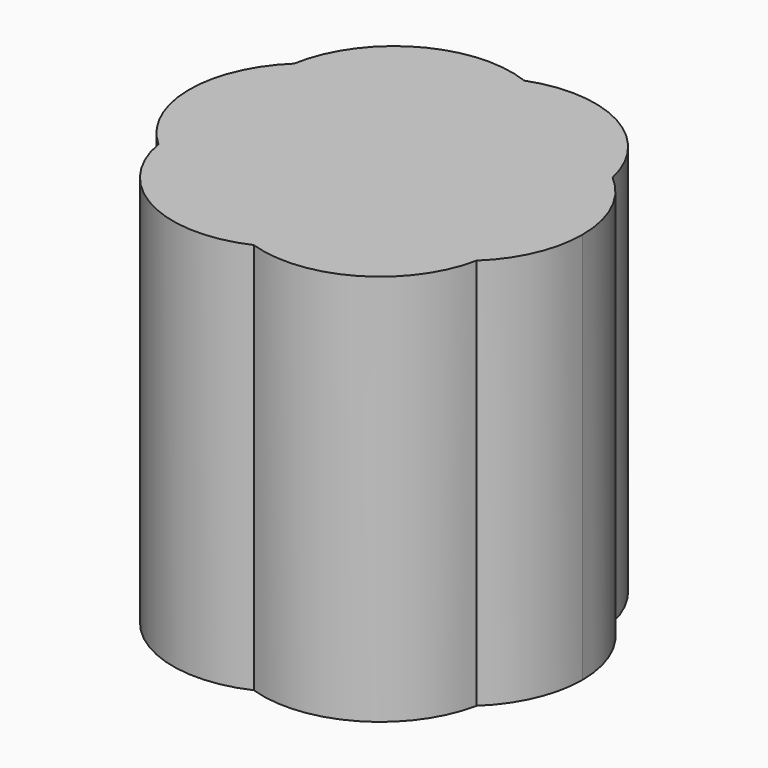
from build123d import *

# Parameters (mm, degrees)
F1_DEPTH = 6


with BuildPart() as f1:
    # F0 (on Top) → F1 (new body)
    with BuildSketch(Plane.XY):
        with BuildLine():
            ThreePointArc((-1.1568522608, 0.6937359032), (-1.1635140561, 1.2538159831), (-0.997691049, 1.7888270163))
            ThreePointArc((-0.997691049, 1.7888270163), (-1.7718265711, 1.7060478069), (-2.4385922747, 1.3041004216))
            ThreePointArc((-2.4385922747, 1.3041004216), (-2.4199534831, 0.6018817521), (-2.1339543408, -0.0397279073))
            ThreePointArc((-2.1339543408, -0.0397279073), (-1.7095369259, 0.4124412037), (-1.1568522608, 0.6937359032))
        make_face()
        with BuildLine():
            ThreePointArc((-0.997691049, 1.7888270163), (-0.5922058735, 2.3275723912), (-0.0169261846, 2.6793082097))
            ThreePointArc((-0.0169261846, 2.6793082097), (-1.5533527226, 2.5650567412), (-2.4385922747, 1.3041004216))
            ThreePointArc((-2.4385922747, 1.3041004216), (-1.7718265711, 1.7060478069), (-0.997691049, 1.7888270163))
        make_face()
        with BuildLine():
            ThreePointArc((0.9573035227, 1.7806946431), (0.5559078013, 2.3229336146), (-0.0169261846, 2.6793082097))
            ThreePointArc((-0.0169261846, 2.6793082097), (-0.5922058735, 2.3275723912), (-0.997691049, 1.7888270163))
            ThreePointArc((-0.997691049, 1.7888270163), (-0.4574037648, 1.6406241122), (0.0111474656, 1.3334853898))
            ThreePointArc((0.0111474656, 1.3334853898), (0.4510071634, 1.6273697), (0.9573035227, 1.7806946431))
        make_face()
        with BuildLine():
            ThreePointArc((0.9573035227, 1.7806946431), (1.7096536375, 1.7321721756), (2.3761394669, 1.3797778447))
            ThreePointArc((2.3761394669, 1.3797778447), (1.4767539015, 2.5767352448), (-0.0169261846, 2.6793082097))
            ThreePointArc((-0.0169261846, 2.6793082097), (0.5559078013, 2.3229336146), (0.9573035227, 1.7806946431))
        make_face()
        with BuildLine():
            ThreePointArc((2.1637118092, 0.0729466904), (2.3530885061, 0.5167542483), (2.4177632693, 0.9949235246))
            ThreePointArc((2.4177632693, 0.9949235246), (2.4073270646, 1.188472865), (2.3761394669, 1.3797778447))
            ThreePointArc((2.3761394669, 1.3797778447), (1.7096536375, 1.7321721756), (0.9573035227, 1.7806946431))
            ThreePointArc((0.9573035227, 1.7806946431), (1.0903838788, 1.4003008803), (1.1354978012, 0.9998329915))
            ThreePointArc((1.1354978012, 0.9998329915), (1.1324356845, 0.8948843302), (1.1232597528, 0.7902927419))
            ThreePointArc((1.1232597528, 0.7902927419), (1.708510909, 0.5259333713), (2.1637118092, 0.0729466904))
        make_face()
        with BuildLine():
            ThreePointArc((-2.1339543408, -0.0397279073), (-2.4199534831, 0.6018817521), (-2.4385922747, 1.3041004216))
            ThreePointArc((-2.4385922747, 1.3041004216), (-2.9977258641, -0.0250155949), (-2.4018688339, -1.338078486))
            ThreePointArc((-2.4018688339, -1.338078486), (-2.3917945043, -0.6633399709), (-2.1339543408, -0.0397279073))
        make_face()
        with BuildLine():
            ThreePointArc((-1.1009648217, -0.7464442706), (-1.680863021, -0.4857613008), (-2.1339543408, -0.0397279073))
            ThreePointArc((-2.1339543408, -0.0397279073), (-2.3917945043, -0.6633399709), (-2.4018688339, -1.338078486))
            ThreePointArc((-2.4018688339, -1.338078486), (-1.7080678324, -1.726186314), (-0.9147548233, -1.7775865604))
            ThreePointArc((-0.9147548233, -1.7775865604), (-1.084551606, -1.2758648881), (-1.1009648217, -0.7464442706))
        make_face()
        with BuildLine():
            ThreePointArc((-0.85915141, -0.0340076861), (-1.0482242964, 0.3134101527), (-1.1568522608, 0.6937359032))
            ThreePointArc((-1.1568522608, 0.6937359032), (-1.7095369259, 0.4124412037), (-2.1339543408, -0.0397279073))
            ThreePointArc((-2.1339543408, -0.0397279073), (-1.680863021, -0.4857613008), (-1.1009648217, -0.7464442706))
            ThreePointArc((-1.1009648217, -0.7464442706), (-1.0176963882, -0.3774508918), (-0.85915141, -0.0340076861))
        make_face()
        with BuildLine():
            ThreePointArc((-0.4116127927, 0.7597235158), (-0.7876987744, 0.7658762166), (-1.1568522608, 0.6937359032))
            ThreePointArc((-1.1568522608, 0.6937359032), (-1.0482242964, 0.3134101527), (-0.85915141, -0.0340076861))
            ThreePointArc((-0.85915141, -0.0340076861), (-0.7152772761, 0.1728132893), (-0.5439351314, 0.3575199534))
            ThreePointArc((-0.5439351314, 0.3575199534), (-0.4896413798, 0.5625260373), (-0.4116127927, 0.7597235158))
        make_face()
        with BuildLine():
            ThreePointArc((0.0111474656, 1.3334853898), (-0.4574037648, 1.6406241122), (-0.997691049, 1.7888270163))
            ThreePointArc((-0.997691049, 1.7888270163), (-1.1635140561, 1.2538159831), (-1.1568522608, 0.6937359032))
            ThreePointArc((-1.1568522608, 0.6937359032), (-0.7876987744, 0.7658762166), (-0.4116127927, 0.7597235158))
            ThreePointArc((-0.4116127927, 0.7597235158), (-0.2289134273, 1.0677370648), (0.0111474656, 1.3334853898))
        make_face()
        with BuildLine():
            ThreePointArc((0.4036450526, 0.8216020402), (0.2305129529, 1.095268938), (0.0111474656, 1.3334853898))
            ThreePointArc((0.0111474656, 1.3334853898), (-0.2289134273, 1.0677370648), (-0.4116127927, 0.7597235158))
            ThreePointArc((-0.4116127927, 0.7597235158), (-0.2345853282, 0.7291615679), (-0.061485922, 0.6811058566))
            ThreePointArc((-0.061485922, 0.6811058566), (0.1663171254, 0.7671206281), (0.4036450526, 0.8216020402))
        make_face()
        with BuildLine():
            ThreePointArc((-0.061485922, 0.6811058566), (-0.2345853282, 0.7291615679), (-0.4116127927, 0.7597235158))
            ThreePointArc((-0.4116127927, 0.7597235158), (-0.4896413798, 0.5625260373), (-0.5439351314, 0.3575199534))
            ThreePointArc((-0.5439351314, 0.3575199534), (-0.315850593, 0.5389040384), (-0.061485922, 0.6811058566))
        make_face()
        with BuildLine():
            ThreePointArc((-0.5381743659, -0.3848543202), (-0.2963556607, -0.5556786295), (-0.0298055449, -0.6845516936))
            ThreePointArc((-0.0298055449, -0.6845516936), (0.2922764364, -0.5248205993), (0.5761903753, -0.3042674301))
            ThreePointArc((0.5761903753, -0.3042674301), (0.5956057278, -0.1526840038), (0.6020930994, 0))
            ThreePointArc((0.6020930994, 0), (0.5953138626, 0.1560744869), (0.5750272169, 0.3109733427))
            ThreePointArc((0.5750272169, 0.3109733427), (0.2758986237, 0.5289337868), (-0.061485922, 0.6811058566))
            ThreePointArc((-0.061485922, 0.6811058566), (-0.315850593, 0.5389040384), (-0.5439351314, 0.3575199534))
            ThreePointArc((-0.5439351314, 0.3575199534), (-0.5797439761, -0.0139674087), (-0.5381743659, -0.3848543202))
        make_face()
        with BuildLine():
            ThreePointArc((0.5750272169, 0.3109733427), (0.5085439822, 0.5727344158), (0.4036450526, 0.8216020402))
            ThreePointArc((0.4036450526, 0.8216020402), (0.1663171254, 0.7671206281), (-0.061485922, 0.6811058566))
            ThreePointArc((-0.061485922, 0.6811058566), (0.2758986237, 0.5289337868), (0.5750272169, 0.3109733427))
        make_face()
        with BuildLine():
            ThreePointArc((0.8405174256, 0.0124557555), (1.0272012467, 0.3849031803), (1.1232597528, 0.7902927419))
            ThreePointArc((1.1232597528, 0.7902927419), (0.7650345091, 0.8423106138), (0.4036450526, 0.8216020402))
            ThreePointArc((0.4036450526, 0.8216020402), (0.5085439822, 0.5727344158), (0.5750272169, 0.3109733427))
            ThreePointArc((0.5750272169, 0.3109733427), (0.7160797193, 0.1691028335), (0.8405174256, 0.0124557555))
        make_face()
        with BuildLine():
            ThreePointArc((0.5761903753, -0.3042674301), (0.7174573986, -0.153503326), (0.8405174256, 0.0124557555))
            ThreePointArc((0.8405174256, 0.0124557555), (0.7160797193, 0.1691028335), (0.5750272169, 0.3109733427))
            ThreePointArc((0.5750272169, 0.3109733427), (0.5953138626, 0.1560744869), (0.6020930994, 0))
            ThreePointArc((0.6020930994, 0), (0.5956057278, -0.1526840038), (0.5761903753, -0.3042674301))
        make_face()
        with BuildLine():
            ThreePointArc((1.1456808137, -0.7259175219), (1.7289683251, -0.4211338064), (2.1637118092, 0.0729466904))
            ThreePointArc((2.1637118092, 0.0729466904), (1.708510909, 0.5259333713), (1.1232597528, 0.7902927419))
            ThreePointArc((1.1232597528, 0.7902927419), (1.0272012467, 0.3849031803), (0.8405174256, 0.0124557555))
            ThreePointArc((0.8405174256, 0.0124557555), (1.034583315, -0.3395858185), (1.1456808137, -0.7259175219))
        make_face()
        with BuildLine():
            ThreePointArc((-0.0298055449, -0.6845516936), (0.1903628873, -0.753593812), (0.4175546177, -0.7939034918))
            ThreePointArc((0.4175546177, -0.7939034918), (0.5144637367, -0.5547847955), (0.5761903753, -0.3042674301))
            ThreePointArc((0.5761903753, -0.3042674301), (0.2922764364, -0.5248205993), (-0.0298055449, -0.6845516936))
        make_face()
        with BuildLine():
            ThreePointArc((-0.5439351314, 0.3575199534), (-0.7152772761, 0.1728132893), (-0.85915141, -0.0340076861))
            ThreePointArc((-0.85915141, -0.0340076861), (-0.7102996373, -0.2200770492), (-0.5381743659, -0.3848543202))
            ThreePointArc((-0.5381743659, -0.3848543202), (-0.5797439761, -0.0139674087), (-0.5439351314, 0.3575199534))
        make_face()
        with BuildLine():
            ThreePointArc((-0.5381743659, -0.3848543202), (-0.7102996373, -0.2200770492), (-0.85915141, -0.0340076861))
            ThreePointArc((-0.85915141, -0.0340076861), (-1.0176963882, -0.3774508918), (-1.1009648217, -0.7464442706))
            ThreePointArc((-1.1009648217, -0.7464442706), (-0.7529740566, -0.7979876707), (-0.4016038897, -0.7808616516))
            ThreePointArc((-0.4016038897, -0.7808616516), (-0.4814482458, -0.5868443622), (-0.5381743659, -0.3848543202))
        make_face()
        with BuildLine():
            ThreePointArc((-0.4016038897, -0.7808616516), (-0.2131286285, -0.7426514962), (-0.0298055449, -0.6845516936))
            ThreePointArc((-0.0298055449, -0.6845516936), (-0.2963556607, -0.5556786295), (-0.5381743659, -0.3848543202))
            ThreePointArc((-0.5381743659, -0.3848543202), (-0.4814482458, -0.5868443622), (-0.4016038897, -0.7808616516))
        make_face()
        with BuildLine():
            ThreePointArc((-0.9147548233, -1.7775865604), (-0.4194618397, -1.6229651666), (0.0111474656, -1.3334853898))
            ThreePointArc((0.0111474656, -1.3334853898), (-0.2219460977, -1.0771289492), (-0.4016038897, -0.7808616516))
            ThreePointArc((-0.4016038897, -0.7808616516), (-0.7529740566, -0.7979876707), (-1.1009648217, -0.7464442706))
            ThreePointArc((-1.1009648217, -0.7464442706), (-1.084551606, -1.2758648881), (-0.9147548233, -1.7775865604))
        make_face()
        with BuildLine():
            ThreePointArc((0.0111474656, -1.3334853898), (0.239889968, -1.0829300793), (0.4175546177, -0.7939034918))
            ThreePointArc((0.4175546177, -0.7939034918), (0.1903628873, -0.753593812), (-0.0298055449, -0.6845516936))
            ThreePointArc((-0.0298055449, -0.6845516936), (-0.2131286285, -0.7426514962), (-0.4016038897, -0.7808616516))
            ThreePointArc((-0.4016038897, -0.7808616516), (-0.2219460977, -1.0771289492), (0.0111474656, -1.3334853898))
        make_face()
        with BuildLine():
            ThreePointArc((2.4867899299, -0.9559845203), (2.4041220695, -0.4167538395), (2.1637118092, 0.0729466904))
            ThreePointArc((2.1637118092, 0.0729466904), (1.7289683251, -0.4211338064), (1.1456808137, -0.7259175219))
            ThreePointArc((1.1456808137, -0.7259175219), (1.1647025459, -0.8759777226), (1.1710580836, -1.0271051433))
            ThreePointArc((1.1710580836, -1.0271051433), (1.1285088392, -1.4161636675), (1.0028727081, -1.786828659))
            ThreePointArc((1.0028727081, -1.786828659), (1.7794436394, -1.7109154316), (2.450926893, -1.3135044737))
            ThreePointArc((2.450926893, -1.3135044737), (2.4778017296, -1.1356416065), (2.4867899299, -0.9559845203))
        make_face()
        with BuildLine():
            ThreePointArc((2.3761394669, 1.3797778447), (2.4073270646, 1.188472865), (2.4177632693, 0.9949235246))
            ThreePointArc((2.4177632693, 0.9949235246), (2.3530885061, 0.5167542483), (2.1637118092, 0.0729466904))
            ThreePointArc((2.1637118092, 0.0729466904), (2.4041220695, -0.4167538395), (2.4867899299, -0.9559845203))
            ThreePointArc((2.4867899299, -0.9559845203), (2.4778017296, -1.1356416065), (2.450926893, -1.3135044737))
            ThreePointArc((2.450926893, -1.3135044737), (2.8717572225, -0.7157792538), (3.0201946317, 0))
            ThreePointArc((3.0201946317, 0), (2.8512526609, 0.7613464974), (2.3761394669, 1.3797778447))
        make_face()
        with BuildLine():
            ThreePointArc((-0.9147548233, -1.7775865604), (-1.7080678324, -1.726186314), (-2.4018688339, -1.338078486))
            ThreePointArc((-2.4018688339, -1.338078486), (-1.4668667433, -2.620172308), (0.1193411355, -2.6641955201))
            ThreePointArc((0.1193411355, -2.6641955201), (-0.4848121728, -2.3224863012), (-0.9147548233, -1.7775865604))
        make_face()
        with BuildLine():
            ThreePointArc((1.1710580836, -1.0271051433), (1.1647025459, -0.8759777226), (1.1456808137, -0.7259175219))
            ThreePointArc((1.1456808137, -0.7259175219), (0.7851067118, -0.7972774734), (0.4175546177, -0.7939034918))
            ThreePointArc((0.4175546177, -0.7939034918), (0.239889968, -1.0829300793), (0.0111474656, -1.3334853898))
            ThreePointArc((0.0111474656, -1.3334853898), (0.4718551554, -1.6370612939), (1.0028727081, -1.786828659))
            ThreePointArc((1.0028727081, -1.786828659), (1.1285088392, -1.4161636675), (1.1710580836, -1.0271051433))
        make_face()
        with BuildLine():
            ThreePointArc((0.1193411355, -2.6641955201), (0.6393876753, -2.3043428733), (1.0028727081, -1.786828659))
            ThreePointArc((1.0028727081, -1.786828659), (0.4718551554, -1.6370612939), (0.0111474656, -1.3334853898))
            ThreePointArc((0.0111474656, -1.3334853898), (-0.4194618397, -1.6229651666), (-0.9147548233, -1.7775865604))
            ThreePointArc((-0.9147548233, -1.7775865604), (-0.4848121728, -2.3224863012), (0.1193411355, -2.6641955201))
        make_face()
        with BuildLine():
            ThreePointArc((0.1193411355, -2.6641955201), (1.5890700457, -2.5135095214), (2.450926893, -1.3135044737))
            ThreePointArc((2.450926893, -1.3135044737), (1.7794436394, -1.7109154316), (1.0028727081, -1.786828659))
            ThreePointArc((1.0028727081, -1.786828659), (0.6393876753, -2.3043428733), (0.1193411355, -2.6641955201))
        make_face()
        with BuildLine():
            ThreePointArc((1.1354978012, 0.9998329915), (1.0903838788, 1.4003008803), (0.9573035227, 1.7806946431))
            ThreePointArc((0.9573035227, 1.7806946431), (0.4510071634, 1.6273697), (0.0111474656, 1.3334853898))
            ThreePointArc((0.0111474656, 1.3334853898), (0.2305129529, 1.095268938), (0.4036450526, 0.8216020402))
            ThreePointArc((0.4036450526, 0.8216020402), (0.7650345091, 0.8423106138), (1.1232597528, 0.7902927419))
            ThreePointArc((1.1232597528, 0.7902927419), (1.1324356845, 0.8948843302), (1.1354978012, 0.9998329915))
        make_face()
        with BuildLine():
            ThreePointArc((0.4175546177, -0.7939034918), (0.7851067118, -0.7972774734), (1.1456808137, -0.7259175219))
            ThreePointArc((1.1456808137, -0.7259175219), (1.034583315, -0.3395858185), (0.8405174256, 0.0124557555))
            ThreePointArc((0.8405174256, 0.0124557555), (0.7174573986, -0.153503326), (0.5761903753, -0.3042674301))
            ThreePointArc((0.5761903753, -0.3042674301), (0.5144637367, -0.5547847955), (0.4175546177, -0.7939034918))
        make_face()
    extrude(amount=F1_DEPTH)


solid = f1.part
